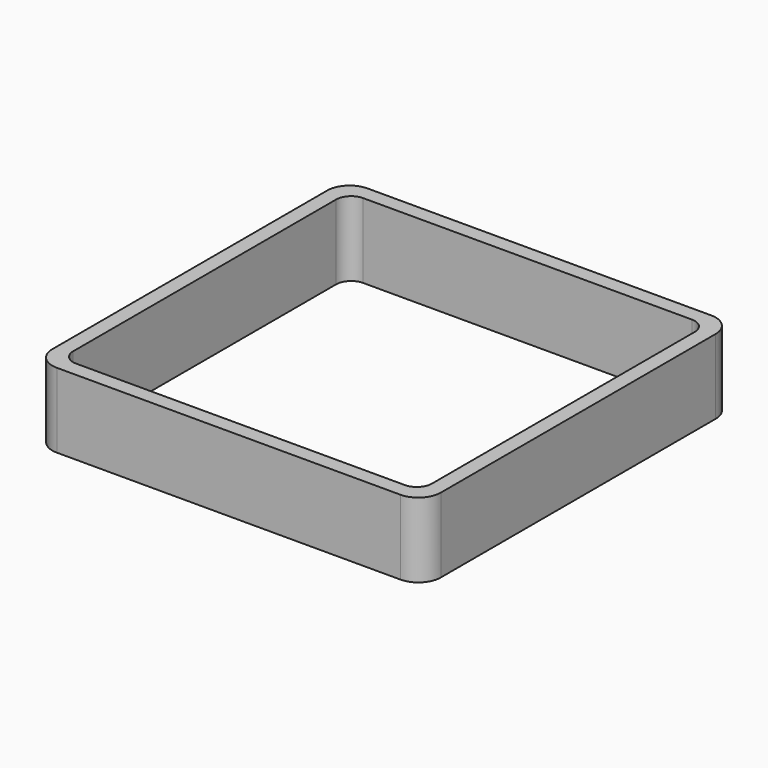
from build123d import *

# Parameters (mm, degrees)
EXTRUDE_DEPTH = 50


with BuildPart() as part:
    # Sketch → Extrude (new body)
    with BuildSketch(Plane.XY):
        with BuildLine():
            Line((-115, 130), (115, 130))
            ThreePointArc((130, 115), (125.606602, 125.606602), (115, 130))
            Line((130, 115), (130, -115))
            ThreePointArc((115, -130), (125.606602, -125.606602), (130, -115))
            Line((115, -130), (-115, -130))
            ThreePointArc((-130, -115), (-125.606602, -125.606602), (-115, -130))
            Line((-130, -115), (-130, 115))
            ThreePointArc((-115, 130), (-125.606602, 125.606602), (-130, 115))
        make_face()
        with BuildLine():
            Line((-110, 120), (110, 120))
            ThreePointArc((120, 110), (117.071068, 117.071068), (110, 120))
            Line((120, 110), (120, -110))
            ThreePointArc((110, -120), (117.071068, -117.071068), (120, -110))
            Line((110, -120), (-110, -120))
            ThreePointArc((-120, -110), (-117.071068, -117.071068), (-110, -120))
            Line((-120, -110), (-120, 110))
            ThreePointArc((-110, 120), (-117.071068, 117.071068), (-120, 110))
        make_face(mode=Mode.SUBTRACT)
    extrude(amount=EXTRUDE_DEPTH)


solid = part.part
